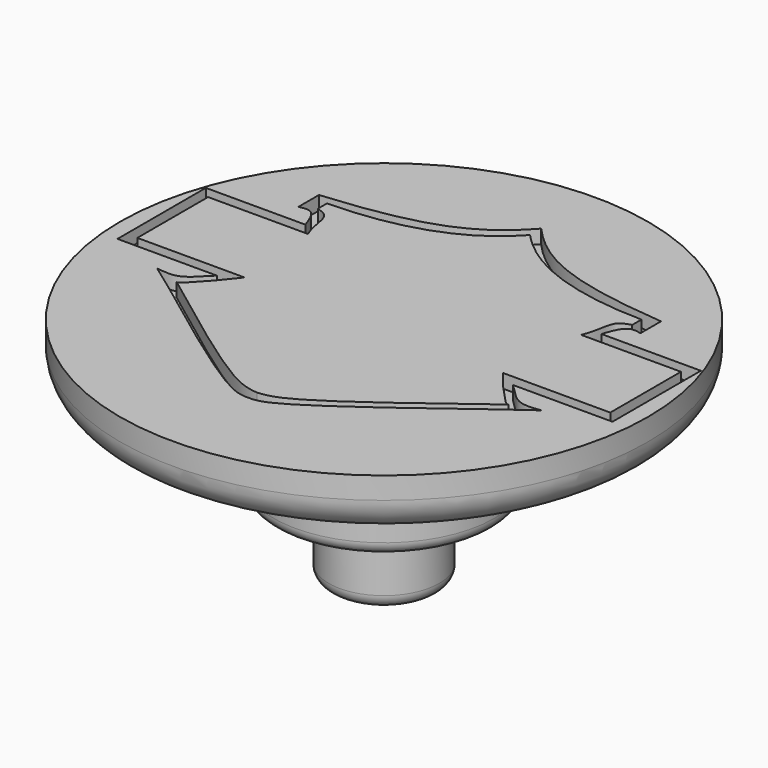
from build123d import *

# Parameters (mm, degrees)
F0_R     = 9.5631
F1_DEPTH = 2
F3_DEPTH = 0.5
F4_R     = 4
F5_DEPTH = 3.5
F6_R     = 1.2071067812
F7_R     = 2
F8_DEPTH = 2.75
F9_R     = 0.4828427125
F10_R    = 0.4587005769


with BuildPart() as f1:
    # F0 (on Top) → F1 (new body)
    with BuildSketch(Plane.XY):
        Circle(F0_R)
    extrude(amount=F1_DEPTH)

    # F2 (on face) → F3 (cut)
    with BuildSketch(Plane.XY.offset(2)):
        with BuildLine():
            Line((-5.3615504412, 3.1385514695), (-8.9615506499, 3.1385514695))
            Line((-8.9615506499, 3.1385514695), (-8.9615506499, -0.8614485305))
            Line((-8.9615506499, -0.8614485305), (-5.3615504412, -0.8614485305))
            add(Edge.make_bspline(
                [(-5.3615504412, -0.8614485305), (-5.6224469921, -1.1192503233), (-6.0925433919, -1.7012989472), (-6.6913880247, -1.6026951337), (-6.9615501282, -1.56970984)],
                knots=[0, 0, 0, 0, 0.5343034202, 1, 1, 1, 1], degree=3))
            add(Edge.make_bspline(
                [(-6.9615501282, -1.56970984), (-6.8399805695, -1.6500440597), (-6.347646398, -1.9753827537), (-0.9303625125, -6.1475392154), (-0.1936655889, -6.144593355), (0, -6.1438189364)],
                knots=[0, 0, 0, 0, 0.1946474203, 0.7882859605, 1, 1, 1, 1], degree=3))
            add(Edge.make_bspline(
                [(6.9615501282, -1.56970984), (6.8399805695, -1.6500440597), (6.347646398, -1.9753827537), (0.9303625125, -6.1475392154), (0.1936655889, -6.144593355), (0, -6.1438189364)],
                knots=[0, 0, 0, 0, 0.1946474203, 0.7882859605, 1, 1, 1, 1], degree=3))
            add(Edge.make_bspline(
                [(5.3615504412, -0.8614485305), (5.6224469921, -1.1192503233), (6.0925433919, -1.7012989472), (6.6913880247, -1.6026951337), (6.9615501282, -1.56970984)],
                knots=[0, 0, 0, 0, 0.5343034202, 1, 1, 1, 1], degree=3))
            Line((5.3615504412, -0.8614485305), (8.9615506499, -0.8614485305))
            Line((8.9615506499, -0.8614485305), (8.9615506499, 3.1385514695))
            Line((8.9615506499, 3.1385514695), (5.3615504412, 3.1385514695))
            add(Edge.make_bspline(
                [(6.1931497529, 3.8636233108), (6.0443974333, 3.9010068061), (5.670325539, 3.978226764), (5.4715862757, 3.474410976), (5.3615504412, 3.1385514695)],
                knots=[0, 0, 0, 0, 0.4192603681, 1, 1, 1, 1], degree=3))
            Line((6.1931497529, 3.8636233108), (6.1931497529, 4.7969568528))
            add(Edge.make_bspline(
                [(6.1931497529, 4.7969568528), (4.7216724548, 4.9242823231), (2.1318591256, 5.3009462593), (0.6299616116, 6.4122477435), (0, 7.1124638543)],
                knots=[0, 0, 0, 0, 0.5517805711, 1, 1, 1, 1], degree=3))
            add(Edge.make_bspline(
                [(-6.1931497529, 4.7969568528), (-4.7216724548, 4.9242823231), (-2.1318591256, 5.3009462593), (-0.6299616116, 6.4122477435), (0, 7.1124638543)],
                knots=[0, 0, 0, 0, 0.5517805711, 1, 1, 1, 1], degree=3))
            Line((-6.1931497529, 4.7969568528), (-6.1931497529, 3.8636233108))
            add(Edge.make_bspline(
                [(-6.1931497529, 3.8636233108), (-6.0443974333, 3.9010068061), (-5.670325539, 3.978226764), (-5.4715862757, 3.474410976), (-5.3615504412, 3.1385514695)],
                knots=[0, 0, 0, 0, 0.4192603681, 1, 1, 1, 1], degree=3))
        make_face()
        with BuildLine():
            Line((-8.5615506499, -0.4614485305), (-8.5615506499, 2.7385514695))
            Line((-8.5615506499, 2.7385514695), (-4.9470122904, 2.7385514695))
            add(Edge.make_bspline(
                [(-4.9470122904, 2.7385514695), (-5.1446386525, 3.2045990564), (-5.1055478765, 3.9237810781), (-5.5161688277, 4.0677103042), (-5.6931497529, 4.1190395132)],
                knots=[0, 0, 0, 0, 0.6041530811, 1, 1, 1, 1], degree=3))
            Line((-5.6931497529, 4.1190395132), (-5.6931497529, 4.5363726094))
            add(Edge.make_bspline(
                [(-5.6931497529, 4.5363726094), (-4.2737453772, 4.5524962856), (-1.9984707056, 4.9805333611), (-0.5673266444, 5.9968670056), (0, 6.6124638543)],
                knots=[0, 0, 0, 0, 0.5518625842, 1, 1, 1, 1], degree=3))
            add(Edge.make_bspline(
                [(5.6931497529, 4.5363726094), (4.2737453772, 4.5524962856), (1.9984707056, 4.9805333611), (0.5673266444, 5.9968670056), (0, 6.6124638543)],
                knots=[0, 0, 0, 0, 0.5518625842, 1, 1, 1, 1], degree=3))
            Line((5.6931497529, 4.5363726094), (5.6931497529, 4.1190395132))
            add(Edge.make_bspline(
                [(4.9470122904, 2.7385514695), (5.1446386525, 3.2045990564), (5.1055478765, 3.9237810781), (5.5161688277, 4.0677103042), (5.6931497529, 4.1190395132)],
                knots=[0, 0, 0, 0, 0.6041530811, 1, 1, 1, 1], degree=3))
            Line((4.9470122904, 2.7385514695), (8.5615506499, 2.7385514695))
            Line((8.5615506499, 2.7385514695), (8.5615506499, -0.4614485305))
            Line((8.5615506499, -0.4614485305), (4.6812822111, -0.4614485305))
            add(Edge.make_bspline(
                [(4.6812822111, -0.4614485305), (5.1399033686, -1.0753765004), (5.8187100584, -1.7971304682), (5.9548754674, -1.8901632532), (6.0075321235, -1.8750670133)],
                knots=[0, 0, 0, 0, 0.7736948108, 1, 1, 1, 1], degree=3))
            add(Edge.make_bspline(
                [(6.0075321235, -1.8750670133), (3.9265038862, -3.4407765932), (1.0763673429, -5.6147060905), (0.2287364416, -5.721853651), (0, -5.7438189364)],
                knots=[0, 0, 0, 0, 0.7303059463, 1, 1, 1, 1], degree=3))
            add(Edge.make_bspline(
                [(-6.0075321235, -1.8750670133), (-3.9265038862, -3.4407765932), (-1.0763673429, -5.6147060905), (-0.2287364416, -5.721853651), (0, -5.7438189364)],
                knots=[0, 0, 0, 0, 0.7303059463, 1, 1, 1, 1], degree=3))
            add(Edge.make_bspline(
                [(-4.6812822111, -0.4614485305), (-5.1399033686, -1.0753765004), (-5.8187100584, -1.7971304682), (-5.9548754674, -1.8901632532), (-6.0075321235, -1.8750670133)],
                knots=[0, 0, 0, 0, 0.7736948108, 1, 1, 1, 1], degree=3))
            Line((-4.6812822111, -0.4614485305), (-8.5615506499, -0.4614485305))
        make_face(mode=Mode.SUBTRACT)
    extrude(amount=-F3_DEPTH, mode=Mode.SUBTRACT)

    # F4 (on face) → F5 (join)
    with BuildSketch(Plane(origin=(0, 0, 0), x_dir=(1, 0, 0), z_dir=(0, 0, -1))):
        Circle(F4_R)
    extrude(amount=F5_DEPTH)

    # F6
    f6_edges = [f1.edges().sort_by_distance(p)[0] for p in [
        (-9.5631, 0, 0),
    ]]
    fillet(f6_edges, radius=F6_R)

    # F7 (on face) → F8 (join)
    with BuildSketch(Plane(origin=(0, 0, -3.5), x_dir=(1, 0, 0), z_dir=(0, 0, -1))):
        Circle(F7_R)
    extrude(amount=F8_DEPTH)

    # F9
    f9_edges = [f1.edges().sort_by_distance(p)[0] for p in [
        (-2, 0, -6.25),
    ]]
    fillet(f9_edges, radius=F9_R)

    # F10
    f10_edges = [f1.edges().sort_by_distance(p)[0] for p in [
        (-4, 0, -3.5),
    ]]
    fillet(f10_edges, radius=F10_R)


solid = f1.part
